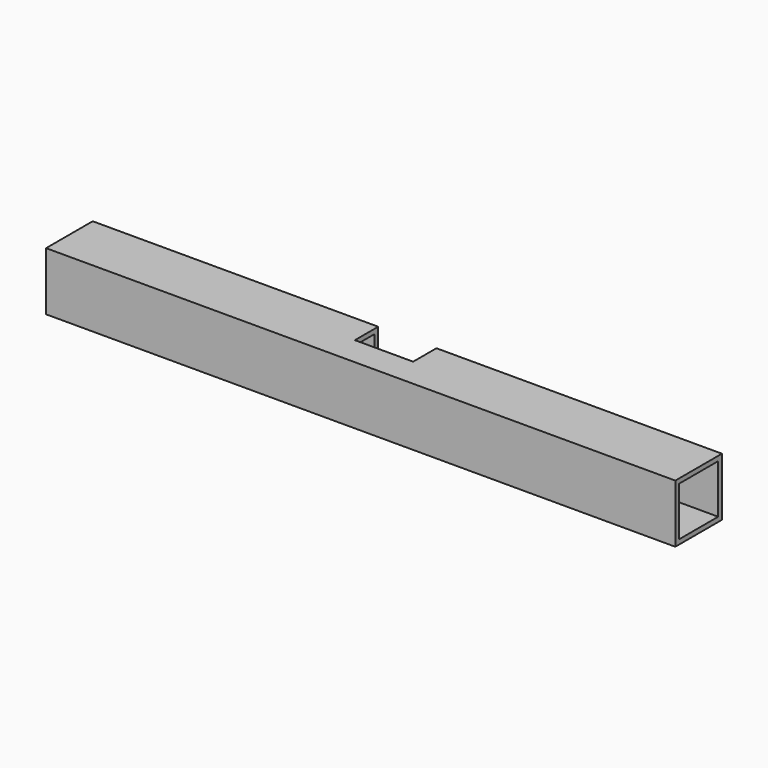
from build123d import *

# Parameters (mm, degrees)
F0_W     = 25
F0_H     = 25
F0_W_2   = 21
F0_H_2   = 21
F1_DEPTH = 270
F2_W     = 25
F2_H     = 12.5
F3_DEPTH = 25.001


with BuildPart() as f1:
    # F0 (on Right) → F1 (new body)
    with BuildSketch(Plane.YZ):
        with Locations((12.5, 12.5)):
            Rectangle(F0_W, F0_H)
        with Locations((12.5, 12.5)):
            Rectangle(F0_W_2, F0_H_2, mode=Mode.SUBTRACT)
    extrude(amount=F1_DEPTH)

    # F2 (on face) → F3 (cut, through all)
    with BuildSketch(Plane.XY.offset(25)):
        with Locations((135, 18.75)):
            Rectangle(F2_W, F2_H)
    extrude(amount=-F3_DEPTH, mode=Mode.SUBTRACT)


solid = f1.part
